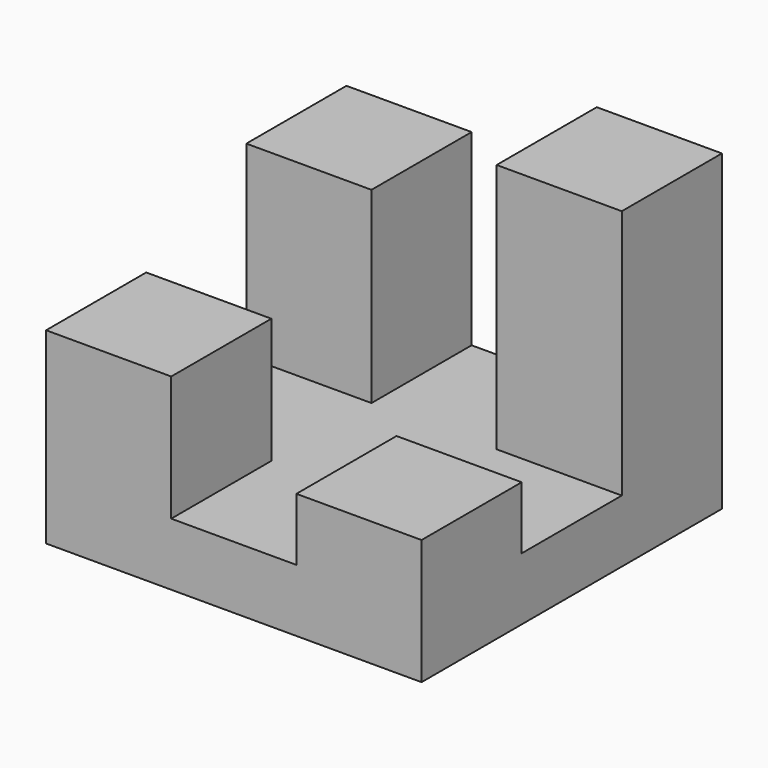
from build123d import *

# Parameters (mm, degrees)
F0_W     = 76.2
F0_H     = 12.7
F1_DEPTH = 76.2
F2_W     = 25.4
F2_H     = 25.4
F3_DEPTH = 12.7
F4_DEPTH = 25.4
F5_DEPTH = 38.1
F6_DEPTH = 50.8


with BuildPart() as f1:
    # F0 (on Front) → F1 (new body)
    with BuildSketch(Plane.XZ):
        with Locations((-9.234428, -49.986904)):
            Rectangle(F0_W, F0_H)
    extrude(amount=F1_DEPTH)

    # F2 (on face) → F3 (join)
    with BuildSketch(Plane.XY.offset(-43.636904)):
        with Locations((16.165572, -63.5)):
            Rectangle(F2_W, F2_H)
    extrude(amount=F3_DEPTH)

    # F2 (on face) → F4 (join)
    with BuildSketch(Plane.XY.offset(-43.636904)):
        with Locations((-34.634428, -63.5)):
            Rectangle(F2_W, F2_H)
    extrude(amount=F4_DEPTH)

    # F2 (on face) → F5 (join)
    with BuildSketch(Plane.XY.offset(-43.636904)):
        with Locations((-34.634428, -12.7)):
            Rectangle(F2_W, F2_H)
    extrude(amount=F5_DEPTH)

    # F2 (on face) → F6 (join)
    with BuildSketch(Plane.XY.offset(-43.636904)):
        with Locations((16.165572, -12.7)):
            Rectangle(F2_W, F2_H)
    extrude(amount=F6_DEPTH)


solid = f1.part
